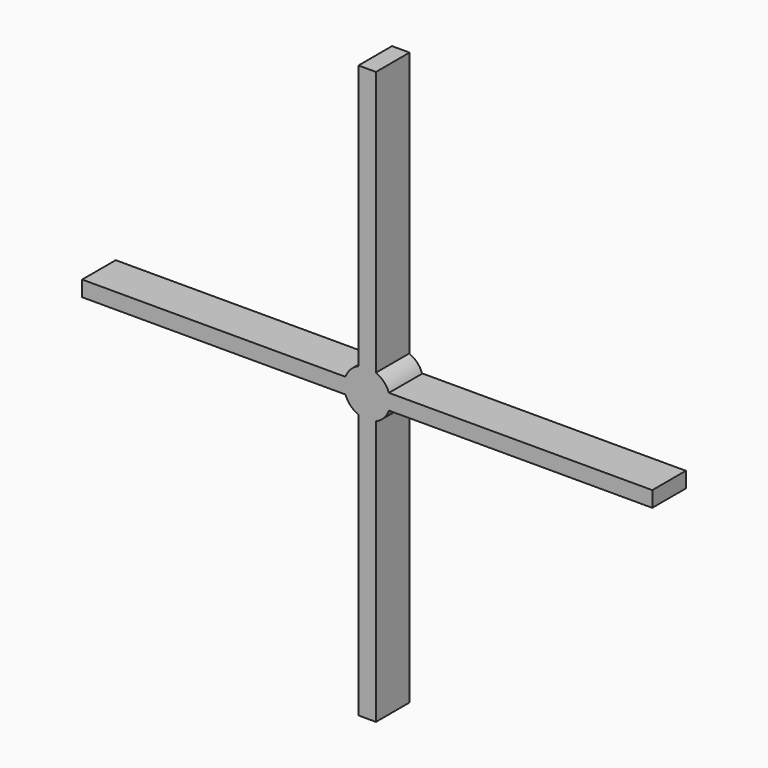
from build123d import *

# Parameters (mm, degrees)
F0_W     = 4.6767704189
F0_H     = 74.3603538722
F0_H_2   = 4.1653104126
F0_W_2   = 73.8234613091
F1_DEPTH = 11.212479988
F2_R     = 6.1657045429
F3_DEPTH = 11.10906


with BuildPart() as f1:
    # F0 (on Front) → F1 (new body)
    with BuildSketch(Plane.XZ):
        with Locations((0, -39.2628321424)):
            Rectangle(F0_W, F0_H)
        Rectangle(F0_W, F0_H_2)
        with Locations((39.250115864, 0)):
            Rectangle(F0_W_2, F0_H_2)
        with Locations((-39.250115864, 0)):
            Rectangle(F0_W_2, F0_H_2)
        with Locations((0, 39.2628321424)):
            Rectangle(F0_W, F0_H)
    extrude(amount=-F1_DEPTH)

    # F2 (on Front) → F3 (join)
    with BuildSketch(Plane.XZ):
        Circle(F2_R)
    extrude(amount=-F3_DEPTH)


solid = f1.part
